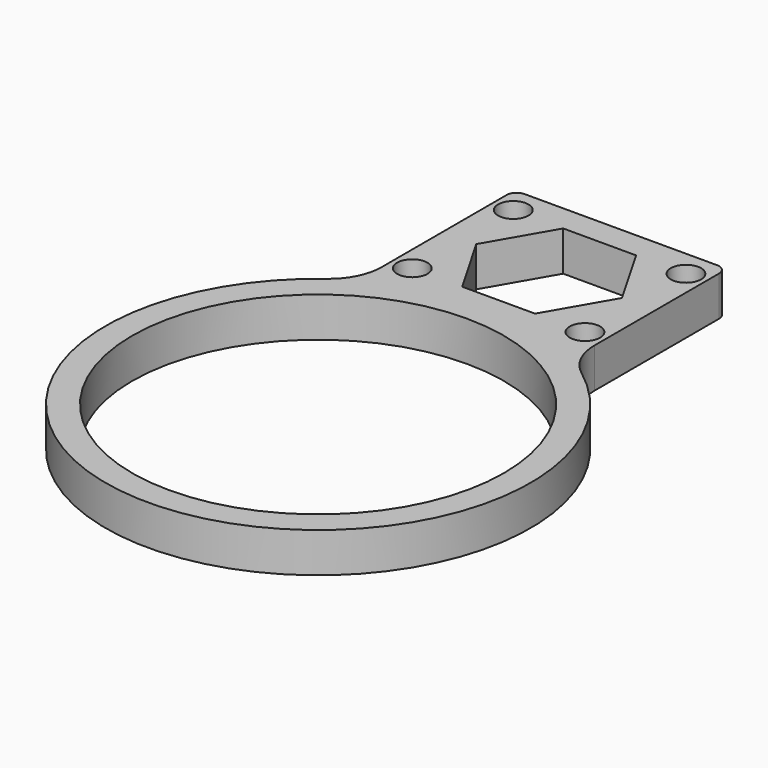
from build123d import *

# Parameters (mm, degrees)
F0_R     = 44.45
F1_DEPTH = 9.525
F2_R     = 2.0828
F3_DEPTH = 25.4
F4_R     = 3.6322
F5_DEPTH = 4.1656
F6_R     = 2.38125
F7_R     = 12.7


with BuildPart() as f1:
    # F0 (on Top) → F1 (new body)
    with BuildSketch(Plane.XY):
        with BuildLine():
            Line((-25.4, 90.4875), (-25.4, 43.994091))
            ThreePointArc((-25.4, 43.994091), (0, -50.8), (25.4, 43.994091))
            Line((25.4, 43.994091), (25.4, 90.4875))
            Line((25.4, 90.4875), (-25.4, 90.4875))
        make_face()
        Circle(F0_R, mode=Mode.SUBTRACT)
    extrude(amount=F1_DEPTH)

    # F2 (on face) → F3 (cut)
    with BuildSketch(Plane.XY.offset(9.525)):
        with Locations((-20.6375, 84.1375)):
            Circle(F2_R)
        with Locations((20.6375, 84.1375)):
            Circle(F2_R)
        with Locations((20.6375, 53.9623)):
            Circle(F2_R)
        with Locations((-20.6375, 53.9623)):
            Circle(F2_R)
        Polygon((-17.42166, 69.0499), (-8.71083, 53.9623), (8.71083, 53.9623), (17.42166, 69.0499), (8.71083, 84.1375), (-8.71083, 84.1375), align=None)
    extrude(amount=-F3_DEPTH, mode=Mode.SUBTRACT)

    # F4 (on face) → F5 (cut)
    with BuildSketch(Plane.XY.offset(9.525)):
        with Locations((-20.6375, 84.1375)):
            Circle(F4_R)
        with Locations((20.6375, 84.1375)):
            Circle(F4_R)
        with Locations((20.6375, 53.9623)):
            Circle(F4_R)
        with Locations((-20.6375, 53.9623)):
            Circle(F4_R)
    extrude(amount=-F5_DEPTH, mode=Mode.SUBTRACT)

    # F6
    f6_edges = [f1.edges().sort_by_distance(p)[0] for p in [
        (-25.4, 90.4875, 4.7625),
        (25.4, 90.4875, 4.7625),
    ]]
    fillet(f6_edges, radius=F6_R)

    # F7
    f7_edges = [f1.edges().sort_by_distance(p)[0] for p in [
        (-25.4, 43.994091, 4.7625),
        (25.4, 43.994091, 4.7625),
    ]]
    fillet(f7_edges, radius=F7_R)


solid = f1.part
